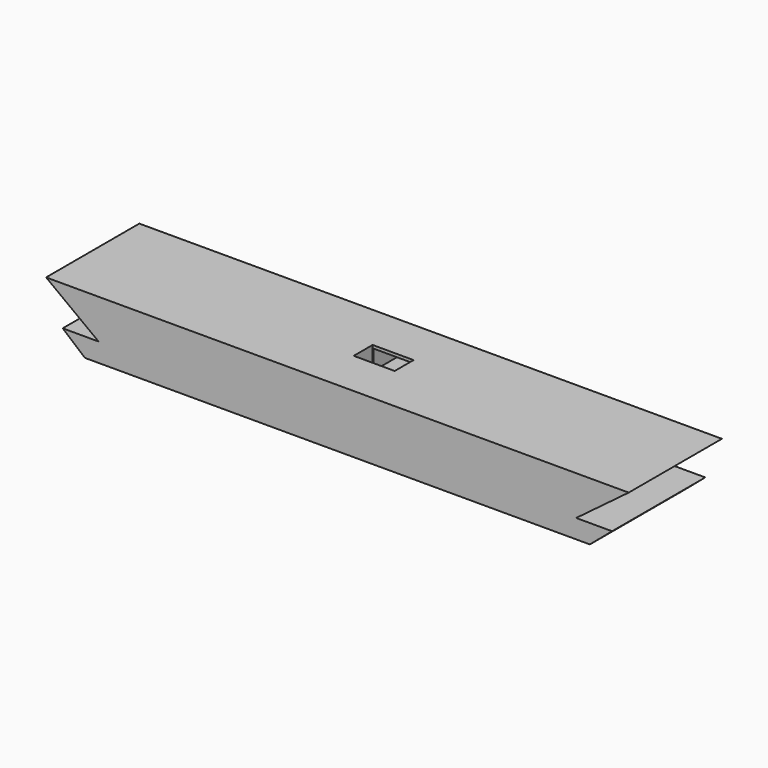
from build123d import *

# Parameters (mm, degrees)
F1_DEPTH = 30.48
F2_W     = 10.7188
F2_H     = 6.1722
F3_DEPTH = 6.35
F4_W     = 10.16
F4_H     = 5.08
F5_DEPTH = 25.4
F7_DEPTH = 30.48


with BuildPart() as f1:
    # F0 (on Front) → F1 (new body)
    with BuildSketch(Plane.XZ):
        Polygon((76.2921414277, 0), (-76.1078585723, 0), (-55.7878585723, -15.24), (55.9721414277, -15.24), align=None)
    extrude(amount=F1_DEPTH)

    # F2 (on face) → F3 (cut)
    with BuildSketch(Plane.XY):
        with Locations((0, -15.24)):
            Rectangle(F2_W, F2_H)
    extrude(amount=-F3_DEPTH, mode=Mode.SUBTRACT)

    # F4 (on face) → F5 (cut)
    with BuildSketch(Plane.XZ.offset(12.1539)):
        with Locations((0, -3.297025953)):
            Rectangle(F4_W, F4_H)
    extrude(amount=-F5_DEPTH, mode=Mode.SUBTRACT)

    # F6 (on face) → F7 (join)
    with BuildSketch(Plane(origin=(0, 0, 0), x_dir=(-1, 0, 0), z_dir=(0, 1, 0))):
        Polygon((62.3605558789, -10.31047702), (55.7878585723, -15.24), (65.9478585723, -15.24), (71.7585558789, -10.31047702), align=None)
        Polygon((-55.9721414277, -15.24), (-62.5448387344, -10.31047702), (-71.9428387344, -10.31047702), (-66.1321414277, -15.24), align=None)
    extrude(amount=-F7_DEPTH)


solid = f1.part
